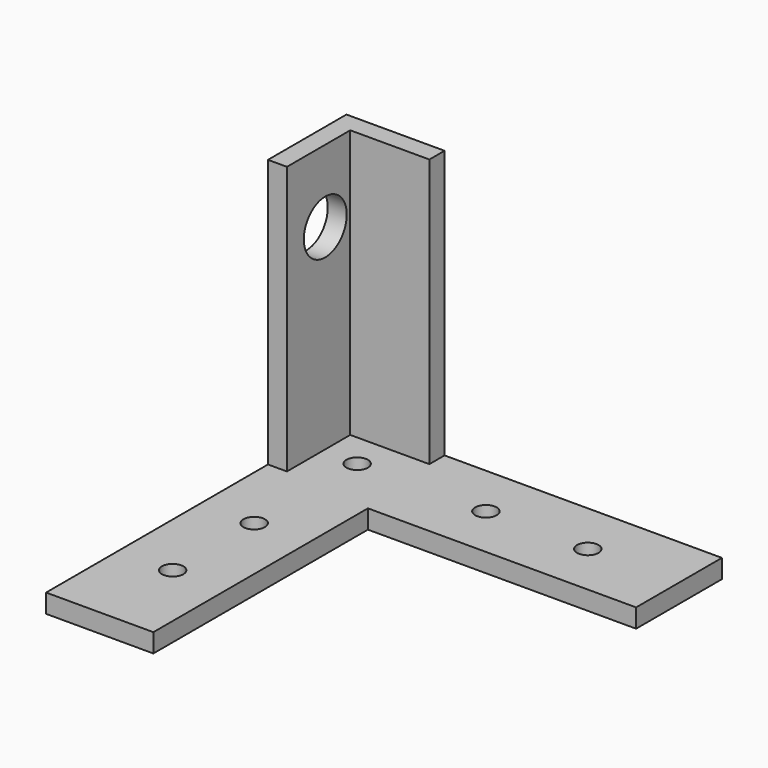
from build123d import *

# Parameters (mm, degrees)
F0_R     = 2
F1_DEPTH = 3.5
F3_DEPTH = 50
F4_R     = 5
F5_DEPTH = 70.001


with BuildPart() as f1:
    # F0 (on Top) → F1 (new body)
    with BuildSketch(Plane.XY):
        Polygon((-10, -10), (-10, -60), (10, -60), (10, -10), (60, -10), (60, 10), (10, 10), (-10, 10), align=None)
        with Locations((0, -43)):
            Circle(F0_R, mode=Mode.SUBTRACT)
        with Locations((0, -24)):
            Circle(F0_R, mode=Mode.SUBTRACT)
        Circle(F0_R, mode=Mode.SUBTRACT)
        with Locations((24, 0)):
            Circle(F0_R, mode=Mode.SUBTRACT)
        with Locations((43, 0)):
            Circle(F0_R, mode=Mode.SUBTRACT)
    extrude(amount=F1_DEPTH)

    # F2 (on face) → F3 (join)
    with BuildSketch(Plane.XY.offset(3.5)):
        Polygon((8.289474, 10), (-10, 10), (-10, -8.289474), (-6.464466, -8.289474), (-6.464466, 6.464466), (8.289474, 6.464466), align=None)
    extrude(amount=F3_DEPTH)

    # F4 (on face) → F5 (cut, through all)
    with BuildSketch(Plane(origin=(-10, 0, 0), x_dir=(0, -1, 0), z_dir=(-1, 0, 0))):
        with Locations((-0.639477, 40.001725)):
            Circle(F4_R)
    extrude(amount=-F5_DEPTH, mode=Mode.SUBTRACT)


solid = f1.part
